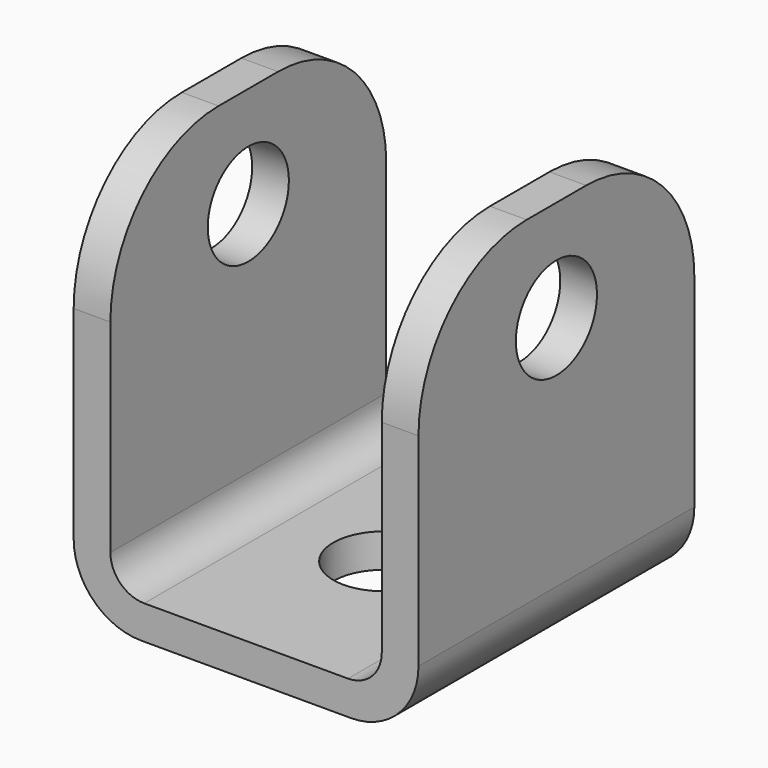
from build123d import *

# Parameters (mm, degrees)
F0_W          = 51
F0_H          = 51
F1_DEPTH      = 60
F2_W          = 40.138214
F2_H          = 55
F3_DEPTH      = 51
F4_R          = 7.5
F5_DEPTH      = 60.001
F6_R          = 7.5
F7_DEPTH      = 25.501
F7_DEPTH_BACK = 88.263765
F8_R          = 10
F9_R          = 5
F10_R         = 20


with BuildPart() as f1:
    # F0 (on Top) → F1 (new body)
    with BuildSketch(Plane.XY):
        Rectangle(F0_W, F0_H)
    extrude(amount=F1_DEPTH)

    # F2 (on face) → F3 (cut)
    with BuildSketch(Plane.XZ.offset(25.5)):
        with Locations((0, 32.5)):
            Rectangle(F2_W, F2_H)
    extrude(amount=-F3_DEPTH, mode=Mode.SUBTRACT)

    # F4 (on Top) → F5 (cut, through all)
    with BuildSketch(Plane.XY):
        Circle(F4_R)
    extrude(amount=F5_DEPTH, mode=Mode.SUBTRACT)

    # F6 (on Right) → F7 (cut, two sides)
    with BuildSketch(Plane.YZ) as f7_sk:
        with Locations((0, 45)):
            Circle(F6_R)
    extrude(amount=F7_DEPTH, mode=Mode.SUBTRACT)
    extrude(f7_sk.sketch, amount=-F7_DEPTH_BACK, mode=Mode.SUBTRACT)

    # F8
    f8_edges = [f1.edges().sort_by_distance(p)[0] for p in [
        (-25.5, 0, 0),
        (25.5, 0, 0),
    ]]
    fillet(f8_edges, radius=F8_R)

    # F9
    f9_edges = [f1.edges().sort_by_distance(p)[0] for p in [
        (-20.069107, 0, 5),
        (20.069107, 0, 5),
    ]]
    fillet(f9_edges, radius=F9_R)

    # F10
    f10_edges = [f1.edges().sort_by_distance(p)[0] for p in [
        (22.784554, 25.5, 60),
        (-22.784554, 25.5, 60),
        (22.784554, -25.5, 60),
        (-22.784554, -25.5, 60),
    ]]
    fillet(f10_edges, radius=F10_R)


solid = f1.part
